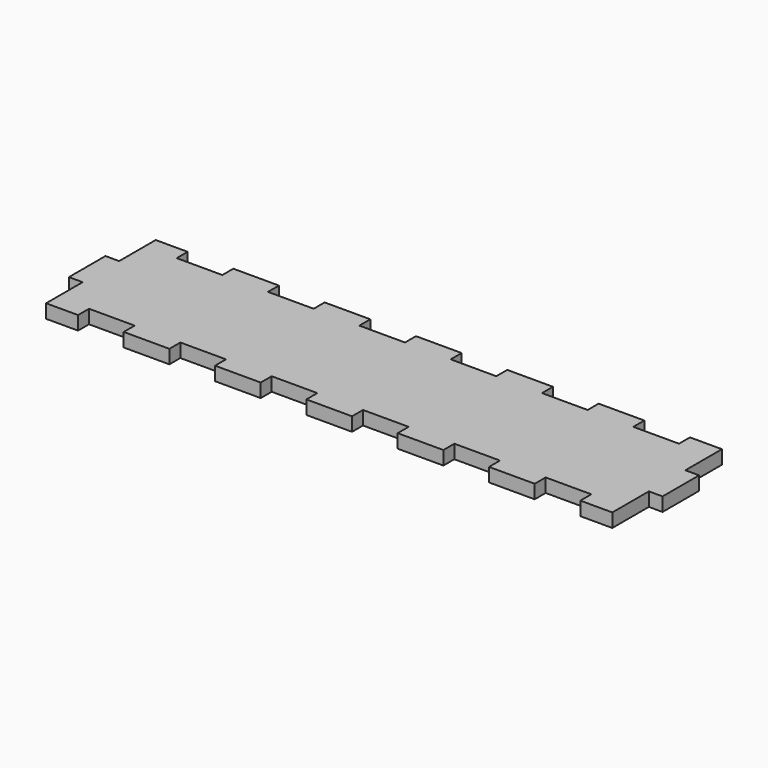
from build123d import *

# Parameters (mm, degrees)
F0_W     = 130
F0_H     = 30
F2_DEPTH = 3
F1_W     = 3
F1_H     = 10
F3_DEPTH = 25
F4_W     = 10
F4_H     = 3
F5_DEPTH = 25


with BuildPart() as f2:
    # F0 (on Top) → F2 (new body)
    with BuildSketch(Plane.XY):
        Rectangle(F0_W, F0_H)
    extrude(amount=F2_DEPTH)

    # F1 (on face) → F3 (cut)
    with BuildSketch(Plane.XY):
        with Locations((63.5, -10)):
            Rectangle(F1_W, F1_H)
        with Locations((63.5, 10)):
            Rectangle(F1_W, F1_H)
        with Locations((63.5, 30)):
            Rectangle(F1_W, F1_H)
        with Locations((63.5, 50)):
            Rectangle(F1_W, F1_H)
        with Locations((63.5, 70)):
            Rectangle(F1_W, F1_H)
        with Locations((63.5, 90)):
            Rectangle(F1_W, F1_H)
        with Locations((-63.5, -10)):
            Rectangle(F1_W, F1_H)
        with Locations((-63.5, 70)):
            Rectangle(F1_W, F1_H)
        with Locations((-63.5, 50)):
            Rectangle(F1_W, F1_H)
        with Locations((-63.5, 30)):
            Rectangle(F1_W, F1_H)
        with Locations((-63.5, 90)):
            Rectangle(F1_W, F1_H)
        with Locations((-63.5, 10)):
            Rectangle(F1_W, F1_H)
    extrude(amount=F3_DEPTH, mode=Mode.SUBTRACT)

    # F4 (on face) → F5 (cut)
    with BuildSketch(Plane.XY.offset(3)):
        with Locations((-50, -13.5)):
            Rectangle(F4_W, F4_H)
        with Locations((-30, -13.5)):
            Rectangle(F4_W, F4_H)
        with Locations((-10, -13.5)):
            Rectangle(F4_W, F4_H)
        with Locations((10, -13.5)):
            Rectangle(F4_W, F4_H)
        with Locations((30, -13.5)):
            Rectangle(F4_W, F4_H)
        with Locations((50, -13.5)):
            Rectangle(F4_W, F4_H)
        with Locations((30, 13.5)):
            Rectangle(F4_W, F4_H)
        with Locations((-50, 13.5)):
            Rectangle(F4_W, F4_H)
        with Locations((50, 13.5)):
            Rectangle(F4_W, F4_H)
        with Locations((-30, 13.5)):
            Rectangle(F4_W, F4_H)
        with Locations((70, 13.5)):
            Rectangle(F4_W, F4_H)
        with Locations((-10, 13.5)):
            Rectangle(F4_W, F4_H)
        with Locations((10, 13.5)):
            Rectangle(F4_W, F4_H)
    extrude(amount=-F5_DEPTH, mode=Mode.SUBTRACT)


solid = f2.part
